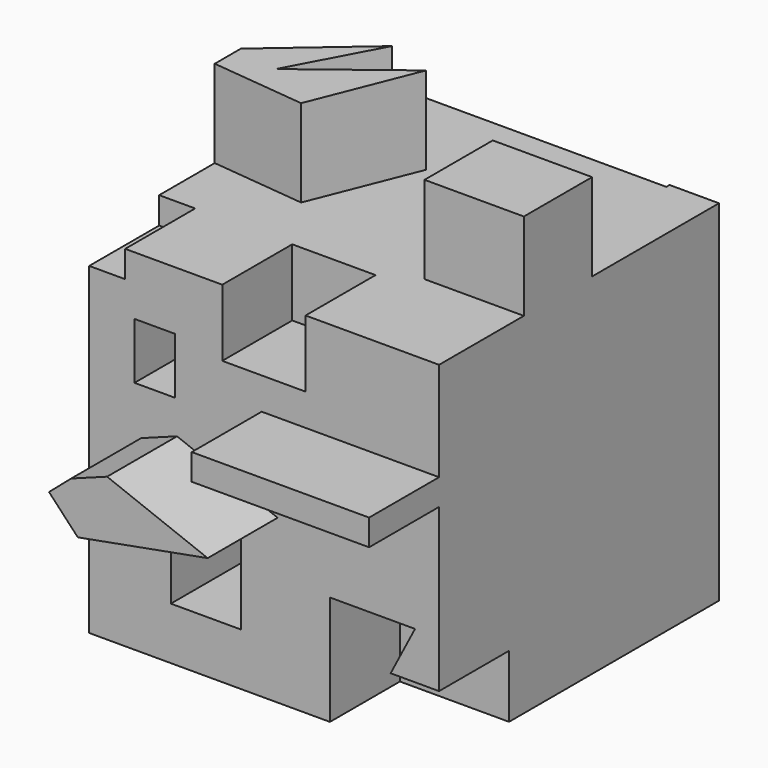
from build123d import *

# Parameters (mm, degrees)
F0_W     = 101.6
F0_H     = 101.6
F1_DEPTH = 101.6
F2_W     = 10.4571996808
F2_H     = 7.7591115123
F2_W_2   = 24.1928109899
F2_H_2   = 19.4694609827
F2_W_3   = 11.7103494704
F2_H_3   = 16.3430143148
F2_W_4   = 20.3322558664
F2_H_4   = 24.7075520456
F3_DEPTH = 25.4
F2_W_5   = 51.507767962
F2_H_5   = 7.5924228877
F4_DEPTH = 25.4
F5_W     = 28.8430942774
F5_H     = 24.771893397
F6_DEPTH = 25.4
F5_W_2   = 87.2339873195
F5_H_2   = 1.1734974742
F7_DEPTH = 25.4


with BuildPart() as f1:
    # F0 (on Front) → F1 (new body)
    with BuildSketch(Plane.XZ):
        with Locations((0.8686259389, 4.0604042715)):
            Rectangle(F0_W, F0_H)
    extrude(amount=-F1_DEPTH)

    # F2 (on face) → F3 (cut)
    with BuildSketch(Plane.XZ):
        with Locations((-44.7027742207, 50.9808485153)):
            Rectangle(F2_W, F2_H)
        with Locations((0.8042831905, 45.1256737802)):
            Rectangle(F2_W_2, F2_H_2)
        with Locations((-30.9166107327, 29.6644521877)):
            Rectangle(F2_W_3, F2_H_3)
        with Locations((-16.0534728784, -19.1715676337)):
            Rectangle(F2_W_4, F2_H_4)
        Polygon((19.9783723801, -14.9249564856), (19.9783723801, -46.7395957285), (51.6686259389, -46.7395957285), (51.6686259389, -28.5655856133), (37.6082397997, -28.5655856133), (44.6859262884, -14.9249564856), align=None)
    extrude(amount=-F3_DEPTH, mode=Mode.SUBTRACT)

    # F2 (on face) → F4 (join)
    with BuildSketch(Plane.XZ):
        Polygon((-24.4180094451, 11.84155792), (-34.8415076733, 7.9810023308), (-41.2757657468, 2.447540639), (-32.9112298787, -6.4317355864), (4.7935228795, 0.5172632518), align=None)
        with Locations((25.9147419579, 22.3293984309)):
            Rectangle(F2_W_5, F2_H_5)
    extrude(amount=F4_DEPTH)

    # F5 (on face) → F6 (join)
    with BuildSketch(Plane.XY.offset(54.8604042715)):
        with Locations((37.2470788002, 43.1616036221)):
            Rectangle(F5_W, F5_H)
        Polygon((-23.9836964756, 77.4240270257), (-49.9313740611, 55.0649799407), (-49.9313740611, 45.5744490027), (-22.5359871984, 42.6790341735), (-10.4717537761, 72.9200467467), (-37.4956354499, 52.1695651114), align=None)
    extrude(amount=F6_DEPTH)

    # F5 (on face) → F7 (cut)
    with BuildSketch(Plane.XY.offset(54.8604042715)):
        with Locations((-6.3143804014, 101.0132512629)):
            Rectangle(F5_W_2, F5_H_2)
        Polygon((17.3564106226, 57.638682425), (21.3778242469, 76.4588862658), (8.8310204446, 68.7377750874), (6.418173667, 57.638682425), align=None)
    extrude(amount=-F7_DEPTH, mode=Mode.SUBTRACT)


solid = f1.part
